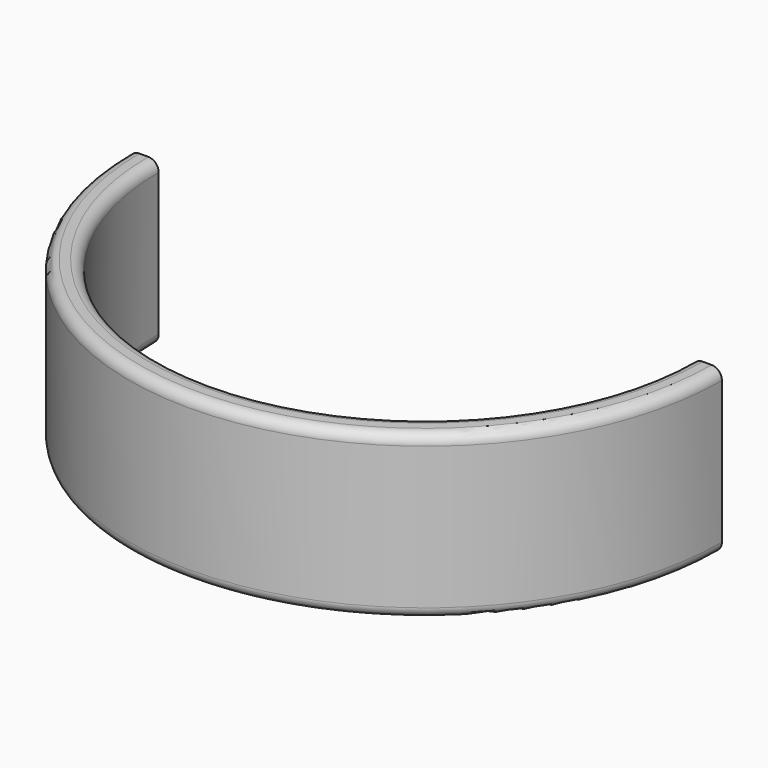
from build123d import *

# Parameters (mm, degrees)
F0_W     = 2
F0_H     = 11
F2_W     = 98.8686215132
F2_H     = 62.5401474535
F3_DEPTH = 20.001
F4_R     = 0.7


with BuildPart() as f1:
    # F0 (on Front) → F1 (revolve)
    with BuildSketch(Plane.XZ):
        with Locations((18.6841351639, -3.538246952)):
            Rectangle(F0_W, F0_H)
    revolve(axis=Axis((-0.3158648361, 0, -1.3117180206), (0, 0, -1)))

    # F2 (on Front) → F3 (cut, through all)
    with BuildSketch(Plane.XZ):
        with Locations((-19.5460626855, -2.5687646121)):
            Rectangle(F2_W, F2_H)
    extrude(amount=-F3_DEPTH, mode=Mode.SUBTRACT)

    # F4
    f4_edges = [f1.edges().sort_by_distance(p)[0] for p in [
        (-0.315865, -20, 1.961753),
        (-0.315865, -18, 1.961753),
        (-0.315865, -20, -9.038247),
        (-0.315865, -18, -9.038247),
    ]]
    fillet(f4_edges, radius=F4_R)


solid = f1.part
